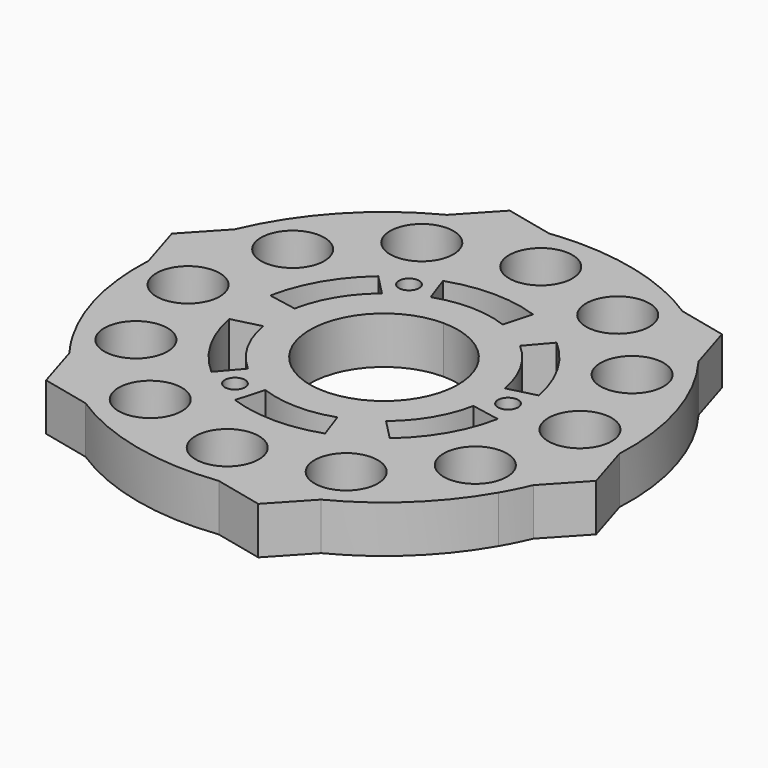
from build123d import *

# Parameters (mm, degrees)
F0_R     = 4.7
F0_R_2   = 1.5
F1_DEPTH = 7


with BuildPart() as f1:
    # F0 (on Top) → F1 (new body)
    with BuildSketch(Plane.XY):
        with BuildLine():
            Line((-26.979165, -28.984375), (-19.81169, -30.632258))
            ThreePointArc((-19.81169, -30.632258), (-8.174057, -35.553103), (4.444148, -36.208947))
            Line((4.444148, -36.208947), (11.611623, -37.85683))
            Line((11.611623, -37.85683), (16.622468, -32.473556))
            ThreePointArc((16.622468, -32.473556), (25.136294, -26.438703), (31.593175, -18.240328))
            ThreePointArc((31.593175, -18.240328), (32.647405, -16.278367), (33.579942, -14.255729))
            Line((33.579942, -14.255729), (38.590788, -8.872455))
            Line((38.590788, -8.872455), (36.434159, -1.841298))
            ThreePointArc((36.434159, -1.841298), (34.876919, 10.69761), (29.135794, 21.953219))
            Line((29.135794, 21.953219), (26.979165, 28.984375))
            Line((26.979165, 28.984375), (19.81169, 30.632258))
            ThreePointArc((19.81169, 30.632258), (10.328442, 34.988021), (0, 36.480657))
            ThreePointArc((0, 36.480657), (-2.226223, 36.412666), (-4.444148, 36.208947))
            Line((-4.444148, 36.208947), (-11.611623, 37.85683))
            Line((-11.611623, 37.85683), (-16.622468, 32.473556))
            ThreePointArc((-16.622468, 32.473556), (-26.702862, 24.855492), (-33.579942, 14.255729))
            Line((-33.579942, 14.255729), (-38.590788, 8.872455))
            Line((-38.590788, 8.872455), (-36.434159, 1.841298))
            ThreePointArc((-36.434159, 1.841298), (-35.464736, -8.549317), (-31.593175, -18.240328))
            ThreePointArc((-31.593175, -18.240328), (-30.421182, -20.134299), (-29.135794, -21.953219))
            Line((-29.135794, -21.953219), (-26.979165, -28.984375))
        make_face()
        with Locations((-14.546111, -25.194604)):
            Circle(F0_R, mode=Mode.SUBTRACT)
        with Locations((-25.194604, -14.546111)):
            Circle(F0_R, mode=Mode.SUBTRACT)
        with Locations((-29.092222, 0)):
            Circle(F0_R, mode=Mode.SUBTRACT)
        with Locations((-9.353936, -15.969821)):
            Circle(F0_R_2, mode=Mode.SUBTRACT)
        with BuildLine():
            Line((-6.784947, -19.181266), (-5.608941, -15.016094))
            ThreePointArc((-5.608941, -15.016094), (-0.212424, -16.028044), (5.209015, -15.159468))
            Line((5.209015, -15.159468), (6.635095, -19.233615))
            ThreePointArc((6.635095, -19.233615), (-0.079366, -20.345765), (-6.784947, -19.181266))
        make_face(mode=Mode.SUBTRACT)
        with BuildLine():
            Line((-20.003937, -3.714697), (-15.80879, -2.650562))
            ThreePointArc((-15.80879, -2.650562), (-13.986905, -7.830057), (-10.523976, -12.090874))
            Line((-10.523976, -12.090874), (-13.339252, -15.362969))
            ThreePointArc((-13.339252, -15.362969), (-17.659632, -10.104149), (-20.003937, -3.714697))
        make_face(mode=Mode.SUBTRACT)
        with Locations((0, -29.092222)):
            Circle(F0_R, mode=Mode.SUBTRACT)
        with Locations((14.546111, -25.194604)):
            Circle(F0_R, mode=Mode.SUBTRACT)
        with BuildLine():
            ThreePointArc((9.526279, -5.5), (0, -11), (-9.526279, -5.5))
            ThreePointArc((-9.526279, -5.5), (-9.526279, 5.5), (0, 11))
            ThreePointArc((0, 11), (9.526279, 5.5), (9.526279, -5.5))
        make_face(mode=Mode.SUBTRACT)
        with BuildLine():
            Line((13.21899, -15.466569), (10.199849, -12.365532))
            ThreePointArc((10.199849, -12.365532), (13.774481, -8.197987), (15.732992, -3.068594))
            Line((15.732992, -3.068594), (19.974347, -3.870647))
            ThreePointArc((19.974347, -3.870647), (17.580266, -10.241616), (13.21899, -15.466569))
        make_face(mode=Mode.SUBTRACT)
        with Locations((18.507238, -0.115835)):
            Circle(F0_R_2, mode=Mode.SUBTRACT)
        with Locations((25.194604, -14.546111)):
            Circle(F0_R, mode=Mode.SUBTRACT)
        with Locations((29.092222, 0)):
            Circle(F0_R, mode=Mode.SUBTRACT)
        with Locations((-25.194604, 14.546111)):
            Circle(F0_R, mode=Mode.SUBTRACT)
        with BuildLine():
            Line((-13.21899, 15.466569), (-10.199849, 12.365532))
            ThreePointArc((-10.199849, 12.365532), (-13.774481, 8.197987), (-15.732992, 3.068594))
            Line((-15.732992, 3.068594), (-19.974347, 3.870647))
            ThreePointArc((-19.974347, 3.870647), (-17.580266, 10.241616), (-13.21899, 15.466569))
        make_face(mode=Mode.SUBTRACT)
        with Locations((-9.153303, 16.085656)):
            Circle(F0_R_2, mode=Mode.SUBTRACT)
        with Locations((-14.546111, 25.194604)):
            Circle(F0_R, mode=Mode.SUBTRACT)
        with BuildLine():
            Line((20.003937, 3.714697), (15.80879, 2.650562))
            ThreePointArc((15.80879, 2.650562), (13.986905, 7.830057), (10.523976, 12.090874))
            Line((10.523976, 12.090874), (13.339252, 15.362969))
            ThreePointArc((13.339252, 15.362969), (17.659632, 10.104149), (20.003937, 3.714697))
        make_face(mode=Mode.SUBTRACT)
        with BuildLine():
            ThreePointArc((-6.635095, 19.233615), (0.079366, 20.345765), (6.784947, 19.181266))
            Line((6.784947, 19.181266), (5.608941, 15.016094))
            ThreePointArc((5.608941, 15.016094), (0.212424, 16.028044), (-5.209015, 15.159468))
            Line((-5.209015, 15.159468), (-6.635095, 19.233615))
        make_face(mode=Mode.SUBTRACT)
        with Locations((25.194604, 14.546111)):
            Circle(F0_R, mode=Mode.SUBTRACT)
        with Locations((14.546111, 25.194604)):
            Circle(F0_R, mode=Mode.SUBTRACT)
        with Locations((0, 29.092222)):
            Circle(F0_R, mode=Mode.SUBTRACT)
    extrude(amount=F1_DEPTH)


solid = f1.part
